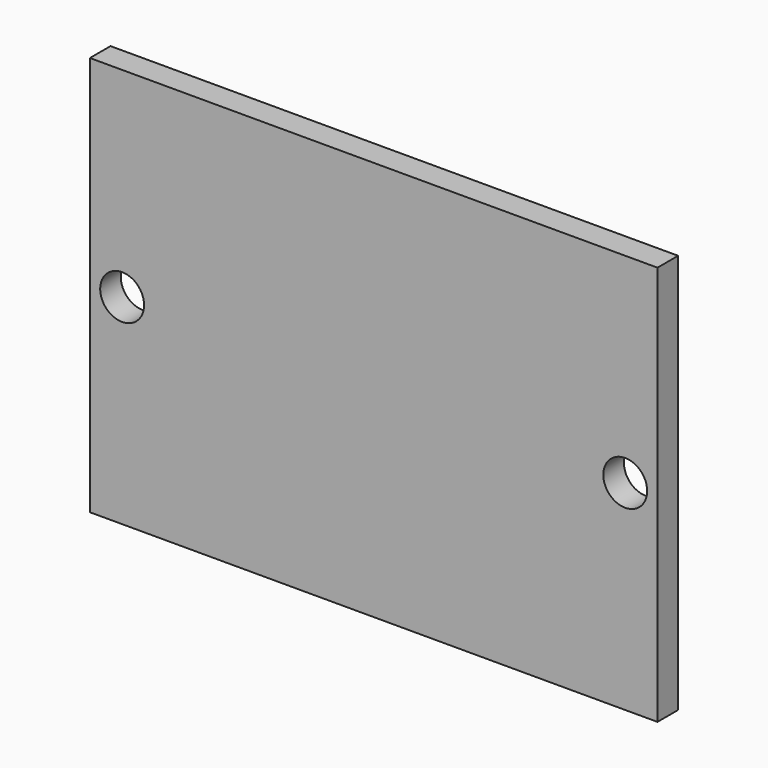
from build123d import *

# Parameters (mm, degrees)
CYLINDER043_R          = 1.7
CYLINDER043_DEPTH      = 10
CYLINDER043_ROLL_ANGLE = 90
CYLINDER044_R          = 1.7
CYLINDER044_DEPTH      = 10
CYLINDER044_ROLL_ANGLE = 90
BOX080_W               = 44
BOX080_H               = 2
BOX080_DEPTH           = 31


with BuildPart() as cylinder075:
    # Cylinder043 → Cylinder043 (new body)
    with BuildSketch(Plane.XY):
        Circle(CYLINDER043_R)
    extrude(amount=CYLINDER043_DEPTH)


with BuildPart() as cylinder075_1:
    # Cylinder043 roll: moved
    add(cylinder075.part.rotate(Axis((0, 0, 0), (1, 0, 0)), CYLINDER043_ROLL_ANGLE))


with BuildPart() as cylinder075_2:
    # Cylinder043 placement: moved
    add(cylinder075_1.part.moved(Location((26, 70, 20))))


with BuildPart() as cylinder076:
    # Cylinder044 → Cylinder044 (new body)
    with BuildSketch(Plane.XY):
        Circle(CYLINDER044_R)
    extrude(amount=CYLINDER044_DEPTH)


with BuildPart() as cylinder076_1:
    # Cylinder044 roll: moved
    add(cylinder076.part.rotate(Axis((0, 0, 0), (1, 0, 0)), CYLINDER044_ROLL_ANGLE))


with BuildPart() as cylinder076_2:
    # Cylinder044 placement: moved
    add(cylinder076_1.part.moved(Location((65, 70, 20))))


with BuildPart() as obj1:
    # Box080 → Box080 (new body)
    with BuildSketch(Plane(origin=(23.5, 68, 4.5), x_dir=(1, 0, 0), z_dir=(0, 0, 1))):
        with Locations((22, 1)):
            Rectangle(BOX080_W, BOX080_H)
    extrude(amount=BOX080_DEPTH)

    # Cut090: cut Cylinder076
    add(cylinder076_2.part, mode=Mode.SUBTRACT)

    # Cut091: cut Cylinder075
    add(cylinder075_2.part, mode=Mode.SUBTRACT)


solid = obj1.part
